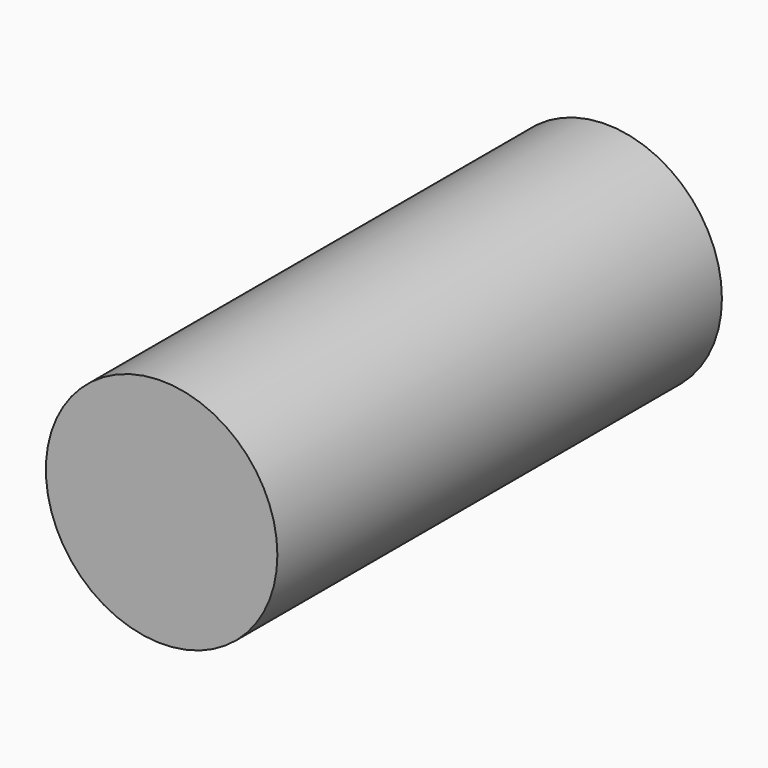
from build123d import *

# Parameters (mm, degrees)
F0_R     = 9.525
F1_DEPTH = 45.72
F3_DEPTH = 25.4


with BuildPart() as f1:
    # F0 (on Front) → F1 (new body)
    with BuildSketch(Plane.XZ):
        Circle(F0_R)
    extrude(amount=F1_DEPTH)

    # F2 (on Front) → F3 (cut)
    with BuildSketch(Plane.XZ):
        with BuildLine():
            ThreePointArc((0, 3.81), (2.694077, 2.694077), (3.81, 0))
            Line((3.81, 0), (3.81, 3.81))
            Line((3.81, 3.81), (0, 3.81))
        make_face()
        with BuildLine():
            Line((0, -3.81), (3.81, -3.81))
            Line((3.81, -3.81), (3.81, 0))
            ThreePointArc((3.81, 0), (2.694077, -2.694077), (0, -3.81))
        make_face()
        with BuildLine():
            Line((-3.81, -3.81), (0, -3.81))
            ThreePointArc((0, -3.81), (-2.694077, -2.694077), (-3.81, 0))
            Line((-3.81, 0), (-3.81, -3.81))
        make_face()
        with BuildLine():
            ThreePointArc((-3.81, 0), (-2.694077, -2.694077), (0, -3.81))
            ThreePointArc((0, -3.81), (2.694077, -2.694077), (3.81, 0))
            ThreePointArc((3.81, 0), (2.694077, 2.694077), (0, 3.81))
            ThreePointArc((0, 3.81), (-2.694077, 2.694077), (-3.81, 0))
        make_face()
        with BuildLine():
            Line((-3.81, 3.81), (-3.81, 0))
            ThreePointArc((-3.81, 0), (-2.694077, 2.694077), (0, 3.81))
            Line((0, 3.81), (-3.81, 3.81))
        make_face()
    extrude(amount=F3_DEPTH, mode=Mode.SUBTRACT)


solid = f1.part
